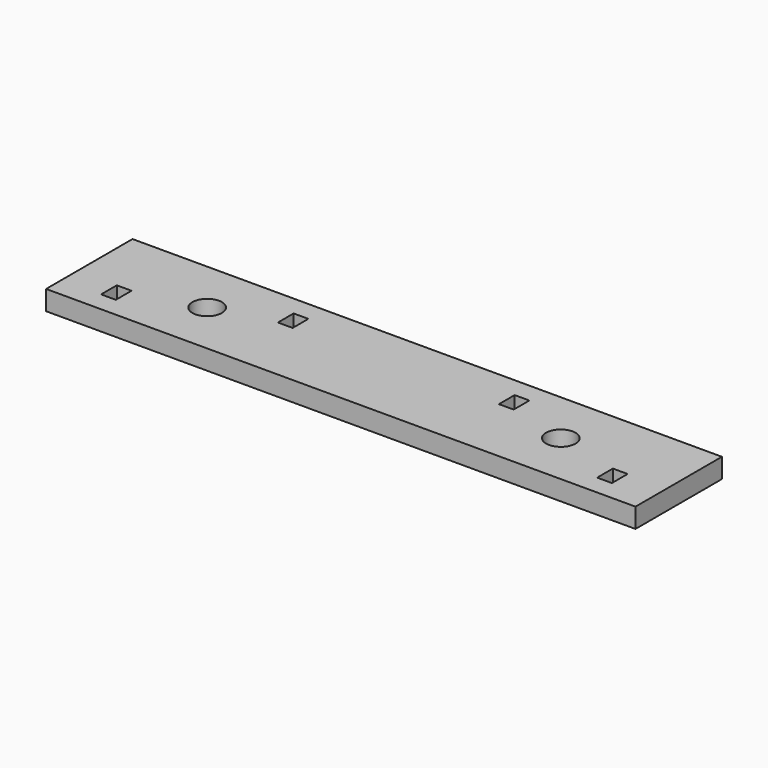
from build123d import *

# Parameters (mm, degrees)
F0_W     = 381
F0_H     = 69.85
F0_W_2   = 9.525
F0_H_2   = 12.7
F0_R     = 9.525
F1_DEPTH = 12.7


with BuildPart() as f1:
    # F0 (on Top) → F1 (new body)
    with BuildSketch(Plane.XY):
        Rectangle(F0_W, F0_H)
        with Locations((-160.3375, -15.875)):
            Rectangle(F0_W_2, F0_H_2, mode=Mode.SUBTRACT)
        with Locations((160.3375, -15.875)):
            Rectangle(F0_W_2, F0_H_2, mode=Mode.SUBTRACT)
        with Locations((-114.3, 0)):
            Circle(F0_R, mode=Mode.SUBTRACT)
        with Locations((-71.4375, 15.875)):
            Rectangle(F0_W_2, F0_H_2, mode=Mode.SUBTRACT)
        with Locations((71.4375, 15.875)):
            Rectangle(F0_W_2, F0_H_2, mode=Mode.SUBTRACT)
        with Locations((114.3, 0)):
            Circle(F0_R, mode=Mode.SUBTRACT)
    extrude(amount=F1_DEPTH)


solid = f1.part
